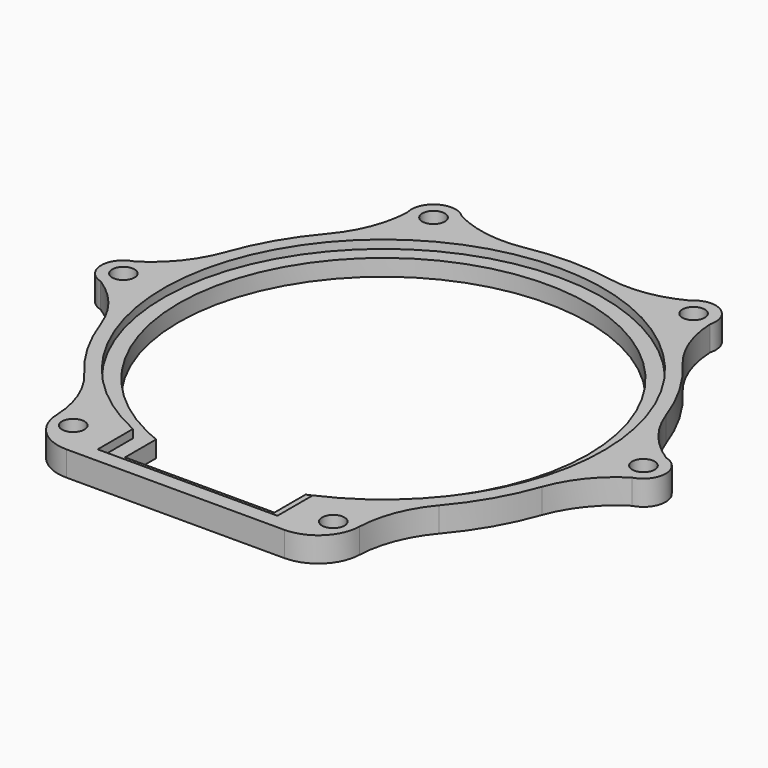
from build123d import *

# Parameters (mm, degrees)
F1_DEPTH = 3
F0_R     = 2.025
F2_DEPTH = 4.5


with BuildPart() as f1:
    # F0 (on Top) → F1 (new body)
    with BuildSketch(Plane.XY):
        with BuildLine():
            Line((16.25, -44.25), (16.25, -36.276714))
            ThreePointArc((16.25, -36.276714), (0, 39.75), (-16.25, -36.276714))
            Line((-16.25, -36.276714), (-16.25, -44.25))
            Line((-16.25, -44.25), (16.25, -44.25))
        make_face()
        with BuildLine():
            ThreePointArc((16.25, -33.2406), (14.887271, -33.872838), (13.5, -34.449238))
            Line((13.5, -34.449238), (13.5, -41.5))
            Line((13.5, -41.5), (7.934459, -41.5))
            Line((7.934459, -41.5), (-7.934459, -41.5))
            Line((-7.934459, -41.5), (-13.5, -41.5))
            Line((-13.5, -41.5), (-13.5, -34.449238))
            ThreePointArc((-13.5, -34.449238), (-14.887271, -33.872838), (-16.25, -33.2406))
            ThreePointArc((-16.25, -33.2406), (0, 37), (16.25, -33.2406))
        make_face(mode=Mode.SUBTRACT)
    extrude(amount=F1_DEPTH)

    # F0 (on Top) → F2 (join)
    with BuildSketch(Plane.XY):
        with BuildLine():
            ThreePointArc((-27.354102, 39.632728), (-28.694314, 33.185179), (-32.055879, 27.522411))
            ThreePointArc((-32.055879, 27.522411), (-36.589573, 21.125), (-39.863047, 14))
            ThreePointArc((-39.863047, 14), (-43.086364, 8.257415), (-48, 3.872983))
            ThreePointArc((-48, 3.872983), (-51, 0), (-48, -3.872983))
            ThreePointArc((-48, -3.872983), (-43.086364, -8.257415), (-39.863047, -14))
            ThreePointArc((-39.863047, -14), (-36.589573, -21.125), (-32.055879, -27.522411))
            ThreePointArc((-32.055879, -27.522411), (-28.694314, -33.185179), (-27.354102, -39.632728))
            ThreePointArc((-27.354102, -39.632728), (-25.005093, -44.859538), (-19.689474, -47))
            Line((-19.689474, -47), (19.689474, -47))
            ThreePointArc((19.689474, -47), (25.005093, -44.859538), (27.354102, -39.632728))
            ThreePointArc((27.354102, -39.632728), (28.694314, -33.185179), (32.055879, -27.522411))
            ThreePointArc((32.055879, -27.522411), (36.589573, -21.125), (39.863047, -14))
            ThreePointArc((39.863047, -14), (43.086364, -8.257415), (48, -3.872983))
            ThreePointArc((48, -3.872983), (51, 0), (48, 3.872983))
            ThreePointArc((48, 3.872983), (43.086364, 8.257415), (39.863047, 14))
            ThreePointArc((39.863047, 14), (36.589573, 21.125), (32.055879, 27.522411))
            ThreePointArc((32.055879, 27.522411), (28.694314, 33.185179), (27.354102, 39.632728))
            ThreePointArc((27.354102, 39.632728), (25.5, 44.167296), (20.645898, 43.505711))
            ThreePointArc((20.645898, 43.505711), (14.392051, 41.442594), (7.807168, 41.522411))
            ThreePointArc((7.807168, 41.522411), (0, 42.25), (-7.807168, 41.522411))
            ThreePointArc((-7.807168, 41.522411), (-14.392051, 41.442594), (-20.645898, 43.505711))
            ThreePointArc((-20.645898, 43.505711), (-25.5, 44.167296), (-27.354102, 39.632728))
        make_face()
        with Locations((-23.5, -40.703194)):
            Circle(F0_R, mode=Mode.SUBTRACT)
        with Locations((23.5, -40.703194)):
            Circle(F0_R, mode=Mode.SUBTRACT)
        with BuildLine():
            ThreePointArc((-16.25, -36.276714), (0, 39.75), (16.25, -36.276714))
            Line((16.25, -36.276714), (16.25, -44.25))
            Line((16.25, -44.25), (-16.25, -44.25))
            Line((-16.25, -44.25), (-16.25, -36.276714))
        make_face(mode=Mode.SUBTRACT)
        with Locations((-47, 0)):
            Circle(F0_R, mode=Mode.SUBTRACT)
        with Locations((-23.5, 40.703194)):
            Circle(F0_R, mode=Mode.SUBTRACT)
        with Locations((47, 0)):
            Circle(F0_R, mode=Mode.SUBTRACT)
        with Locations((23.5, 40.703194)):
            Circle(F0_R, mode=Mode.SUBTRACT)
    extrude(amount=F2_DEPTH)


solid = f1.part
